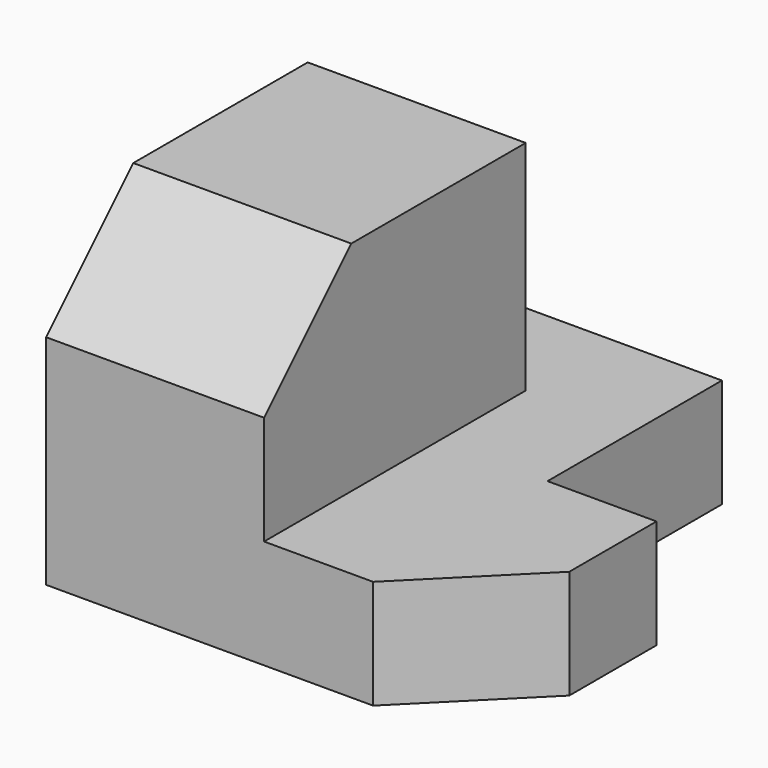
from build123d import *

# Parameters (mm, degrees)
F1_DEPTH = 10
F3_DEPTH = 20


with BuildPart() as f1:
    # F0 (on Top) → F1 (new body)
    with BuildSketch(Plane.XY):
        Polygon((14.622525, 7.670187), (-15.377475, 7.670187), (-15.377475, -32.329813), (14.622525, -32.329813), (24.622525, -22.329813), (24.622525, -12.329813), (14.622525, -12.329813), align=None)
    extrude(amount=F1_DEPTH)

    # F2 (on face) → F3 (join)
    with BuildSketch(Plane(origin=(-15.377475, 0, 0), x_dir=(0, -1, 0), z_dir=(-1, 0, 0))):
        Polygon((2.329813, 10), (32.329813, 10), (32.329813, 20), (22.329813, 30), (2.329813, 30), align=None)
    extrude(amount=-F3_DEPTH)


solid = f1.part
